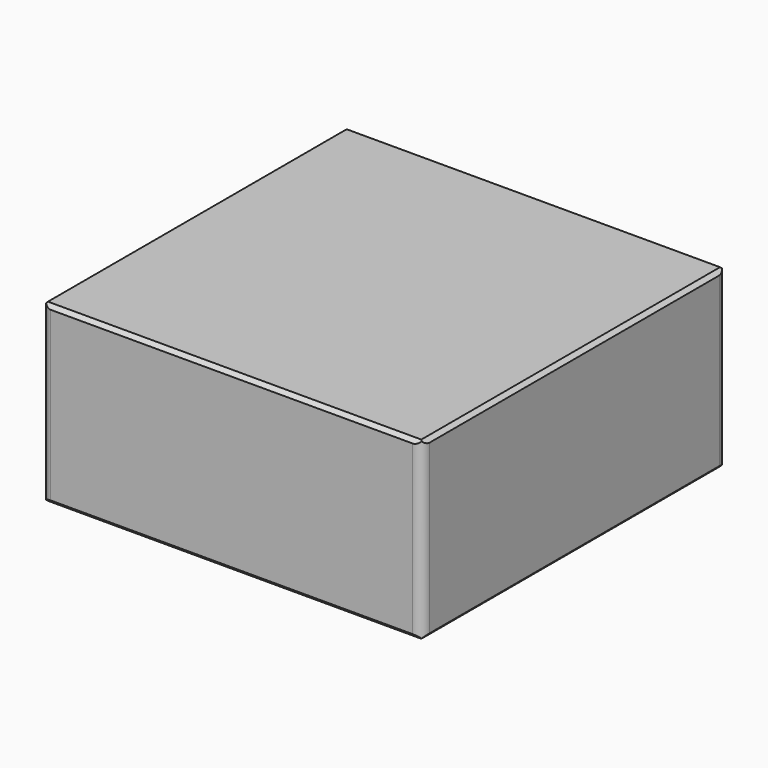
from build123d import *

# Parameters (mm, degrees)
SKETCH008_W     = 10.1
SKETCH008_H     = 10.1
PAD004_DEPTH    = 4.65
CHAMFER001_SIZE = 0.1
FILLET004_R     = 0.25


with BuildPart() as part:
    # Sketch008 → Pad004 (new body)
    with BuildSketch(Plane.XY):
        with Locations((-11.649234, 11.831128)):
            Rectangle(SKETCH008_W, SKETCH008_H)
    extrude(amount=PAD004_DEPTH)

    # Chamfer001
    chamfer001_edges = [part.edges().sort_by_distance(p)[0] for p in [
        (-16.699234, 11.831128, 4.65),
        (-11.649234, 6.781128, 4.65),
        (-6.599234, 11.831128, 4.65),
        (-11.649234, 16.881128, 4.65),
        (-16.699234, 11.831128, 0),
        (-11.649234, 6.781128, 0),
        (-6.599234, 11.831128, 0),
        (-11.649234, 16.881128, 0),
    ]]
    chamfer(chamfer001_edges, length=CHAMFER001_SIZE)

    # Fillet004
    fillet004_edges = [part.edges().sort_by_distance(p)[0] for p in [
        (-16.699234, 6.781128, 2.325),
        (-6.599234, 6.781128, 2.325),
        (-6.599234, 16.881128, 2.325),
        (-16.699234, 16.881128, 2.325),
    ]]
    fillet(fillet004_edges, radius=FILLET004_R)


solid = part.part
